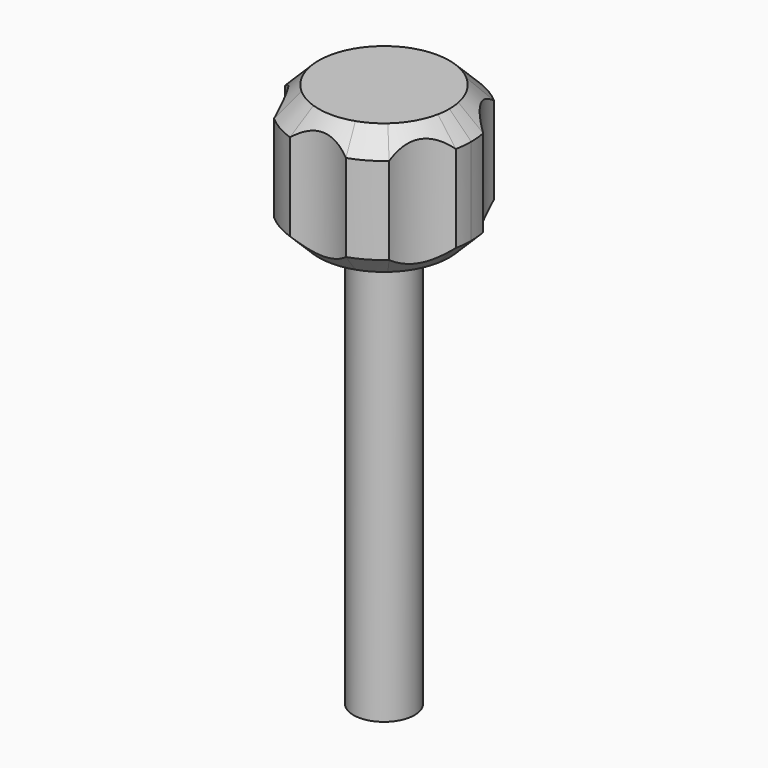
from build123d import *

# Parameters (mm, degrees)
F0_R     = 1.4
F1_DEPTH = 6
F2_SIZE  = 1
F3_DEPTH = 6.001
F4_DEPTH = 19


with BuildPart() as f1:
    # F0 (on Top) → F1 (new body)
    with BuildSketch(Plane.XY):
        with BuildLine():
            ThreePointArc((3.9226903411, -0.7826241038), (3.9806256647, -0.3932166296), (4, 0))
            ThreePointArc((4, 0), (3.9806256647, 0.3932166296), (3.9226903411, 0.7826241038))
            ThreePointArc((3.9226903411, 0.7826241038), (3.0310889132, 1.75), (2.639117526, 3.0058374347))
            ThreePointArc((2.639117526, 3.0058374347), (2, 3.4641016151), (1.2835728151, 3.7884615385))
            ThreePointArc((1.2835728151, 3.7884615385), (0, 3.5), (-1.2835728151, 3.7884615385))
            ThreePointArc((-1.2835728151, 3.7884615385), (-2, 3.4641016151), (-2.639117526, 3.0058374347))
            ThreePointArc((-2.639117526, 3.0058374347), (-3.0310889132, 1.75), (-3.9226903411, 0.7826241038))
            ThreePointArc((-3.9226903411, 0.7826241038), (-4, 0), (-3.9226903411, -0.7826241038))
            ThreePointArc((-3.9226903411, -0.7826241038), (-3.0310889132, -1.75), (-2.639117526, -3.0058374347))
            ThreePointArc((-2.639117526, -3.0058374347), (-2, -3.4641016151), (-1.2835728151, -3.7884615385))
            ThreePointArc((-1.2835728151, -3.7884615385), (0, -3.5), (1.2835728151, -3.7884615385))
            ThreePointArc((1.2835728151, -3.7884615385), (2, -3.4641016151), (2.639117526, -3.0058374347))
            ThreePointArc((2.639117526, -3.0058374347), (3.0310889132, -1.75), (3.9226903411, -0.7826241038))
        make_face()
        Circle(F0_R, mode=Mode.SUBTRACT)
        Circle(F0_R)
        with BuildLine():
            ThreePointArc((-1.2835728151, 3.7884615385), (0, 3.5), (1.2835728151, 3.7884615385))
            ThreePointArc((1.2835728151, 3.7884615385), (0, 4), (-1.2835728151, 3.7884615385))
        make_face()
        with BuildLine():
            ThreePointArc((2.639117526, 3.0058374347), (3.0310889132, 1.75), (3.9226903411, 0.7826241038))
            ThreePointArc((3.9226903411, 0.7826241038), (3.4641016151, 2), (2.639117526, 3.0058374347))
        make_face()
        with BuildLine():
            ThreePointArc((2.639117526, -3.0058374347), (3.4641016151, -2), (3.9226903411, -0.7826241038))
            ThreePointArc((3.9226903411, -0.7826241038), (3.0310889132, -1.75), (2.639117526, -3.0058374347))
        make_face()
        with BuildLine():
            ThreePointArc((-1.2835728151, -3.7884615385), (0, -4), (1.2835728151, -3.7884615385))
            ThreePointArc((1.2835728151, -3.7884615385), (0, -3.5), (-1.2835728151, -3.7884615385))
        make_face()
        with BuildLine():
            ThreePointArc((-3.9226903411, -0.7826241038), (-3.4641016151, -2), (-2.639117526, -3.0058374347))
            ThreePointArc((-2.639117526, -3.0058374347), (-3.0310889132, -1.75), (-3.9226903411, -0.7826241038))
        make_face()
        with BuildLine():
            ThreePointArc((-3.9226903411, 0.7826241038), (-3.0310889132, 1.75), (-2.639117526, 3.0058374347))
            ThreePointArc((-2.639117526, 3.0058374347), (-3.4641016151, 2), (-3.9226903411, 0.7826241038))
        make_face()
    extrude(amount=F1_DEPTH)

    # F2
    f2_edges = [f1.edges().sort_by_distance(p)[0] for p in [
        (2.639118, -3.005837, 6),
        (2.639118, -3.005837, 0),
    ]]
    chamfer(f2_edges, length=F2_SIZE)

    # F0 (on Top) → F3 (cut, through all)
    with BuildSketch(Plane.XY):
        with BuildLine():
            ThreePointArc((-1.2835728151, -3.7884615385), (0, -4), (1.2835728151, -3.7884615385))
            ThreePointArc((1.2835728151, -3.7884615385), (0, -3.5), (-1.2835728151, -3.7884615385))
        make_face()
        with BuildLine():
            ThreePointArc((-3.9226903411, -0.7826241038), (-3.4641016151, -2), (-2.639117526, -3.0058374347))
            ThreePointArc((-2.639117526, -3.0058374347), (-3.0310889132, -1.75), (-3.9226903411, -0.7826241038))
        make_face()
        with BuildLine():
            ThreePointArc((2.639117526, -3.0058374347), (3.4641016151, -2), (3.9226903411, -0.7826241038))
            ThreePointArc((3.9226903411, -0.7826241038), (3.0310889132, -1.75), (2.639117526, -3.0058374347))
        make_face()
        with BuildLine():
            ThreePointArc((2.639117526, 3.0058374347), (3.0310889132, 1.75), (3.9226903411, 0.7826241038))
            ThreePointArc((3.9226903411, 0.7826241038), (3.4641016151, 2), (2.639117526, 3.0058374347))
        make_face()
        with BuildLine():
            ThreePointArc((-1.2835728151, 3.7884615385), (0, 3.5), (1.2835728151, 3.7884615385))
            ThreePointArc((1.2835728151, 3.7884615385), (0, 4), (-1.2835728151, 3.7884615385))
        make_face()
        with BuildLine():
            ThreePointArc((-3.9226903411, 0.7826241038), (-3.0310889132, 1.75), (-2.639117526, 3.0058374347))
            ThreePointArc((-2.639117526, 3.0058374347), (-3.4641016151, 2), (-3.9226903411, 0.7826241038))
        make_face()
    extrude(amount=F3_DEPTH, mode=Mode.SUBTRACT)

    # F0 (on Top) → F4 (join)
    with BuildSketch(Plane.XY):
        Circle(F0_R)
    extrude(amount=-F4_DEPTH)


solid = f1.part
